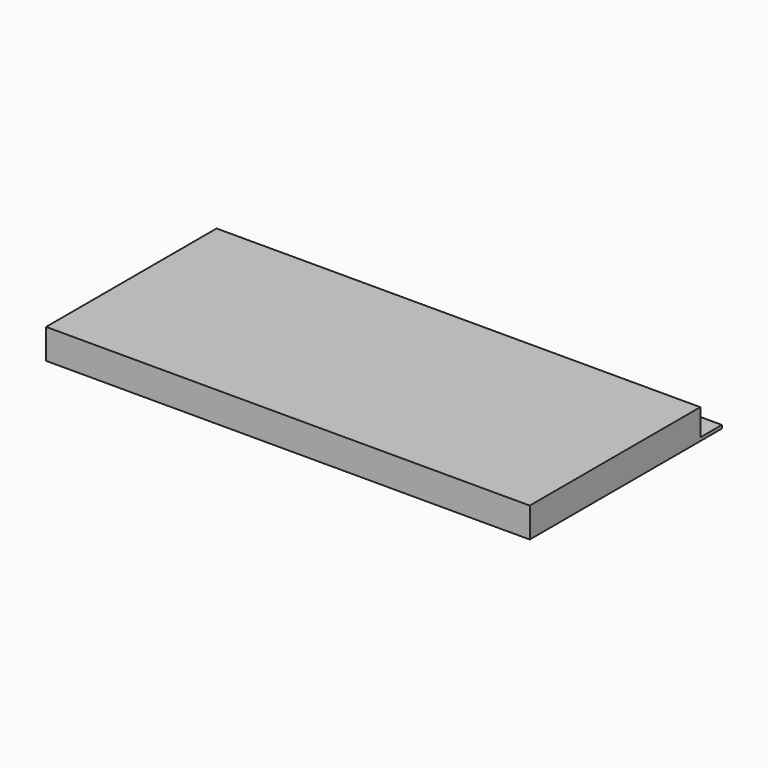
from build123d import *

# Parameters (mm, degrees)
BOX004_W       = 52
BOX004_H       = 15
BOX004_DEPTH   = 3.25
BOX003_W       = 56.3
BOX003_H       = 19.4
BOX003_DEPTH   = 3.25
BOX005_W       = 52
BOX005_H       = 15
BOX005_DEPTH   = 3.25
CYLINDER_R     = 0.35
CYLINDER_DEPTH = 0.4
ARRAY_X_COUNT  = 16
ARRAY_X_PITCH  = 1.27
BOX_W          = 59
BOX_H          = 29.3
BOX_DEPTH      = 0.4
BOX002_W       = 56.3
BOX002_H       = 19.4
BOX002_DEPTH   = 3.25
BOX001_W       = 59
BOX001_H       = 26
BOX001_DEPTH   = 3.25


with BuildPart() as box004:
    # Box004 → Box004 (new body)
    with BuildSketch(Plane(origin=(3.5, 6.3, 0.4), x_dir=(1, 0, 0), z_dir=(0, 0, 1))):
        with Locations((26, 7.5)):
            Rectangle(BOX004_W, BOX004_H)
    extrude(amount=BOX004_DEPTH)


with BuildPart() as cut001:
    # Box003 → Box003 (new body)
    with BuildSketch(Plane(origin=(1.35, 4.1, 0.4), x_dir=(1, 0, 0), z_dir=(0, 0, 1))):
        with Locations((28.15, 9.7)):
            Rectangle(BOX003_W, BOX003_H)
    extrude(amount=BOX003_DEPTH)

    # Cut001: cut Box004
    add(box004.part, mode=Mode.SUBTRACT)


with BuildPart() as box005:
    # Box005 → Box005 (new body)
    with BuildSketch(Plane(origin=(3.5, 6.3, 0.4), x_dir=(1, 0, 0), z_dir=(0, 0, 1))):
        with Locations((26, 7.5)):
            Rectangle(BOX005_W, BOX005_H)
    extrude(amount=BOX005_DEPTH)


with BuildPart() as array:
    # Cylinder → Cylinder (new body)
    with BuildSketch(Plane(origin=(21.5, 27.8, 0), x_dir=(1, 0, 0), z_dir=(0, 0, 1))):
        Circle(CYLINDER_R)
    extrude(amount=CYLINDER_DEPTH)

    # Array X: Array ×16


with BuildPart() as array_1:
    add(array.part)
    with Locations(*[(i * ARRAY_X_PITCH, 0, 0) for i in range(1, ARRAY_X_COUNT)]):
        add(array.part)


with BuildPart() as cut002:
    # Box → Box (new body)
    with BuildSketch(Plane.XY):
        with Locations((29.5, 14.65)):
            Rectangle(BOX_W, BOX_H)
    extrude(amount=BOX_DEPTH)

    # Cut002: cut Array
    add(array_1.part, mode=Mode.SUBTRACT)


with BuildPart() as box002:
    # Box002 → Box002 (new body)
    with BuildSketch(Plane(origin=(1.35, 4.1, 0.4), x_dir=(1, 0, 0), z_dir=(0, 0, 1))):
        with Locations((28.15, 9.7)):
            Rectangle(BOX002_W, BOX002_H)
    extrude(amount=BOX002_DEPTH)


with BuildPart() as fusion:
    # Box001 → Box001 (new body)
    with BuildSketch(Plane.XY.offset(0.4)):
        with Locations((29.5, 13)):
            Rectangle(BOX001_W, BOX001_H)
    extrude(amount=BOX001_DEPTH)

    # Cut: cut Box002
    add(box002.part, mode=Mode.SUBTRACT)

    # Fusion: union Cut001, box005, Cut002
    add(cut001.part)
    add(box005.part)
    add(cut002.part)


solid = fusion.part
